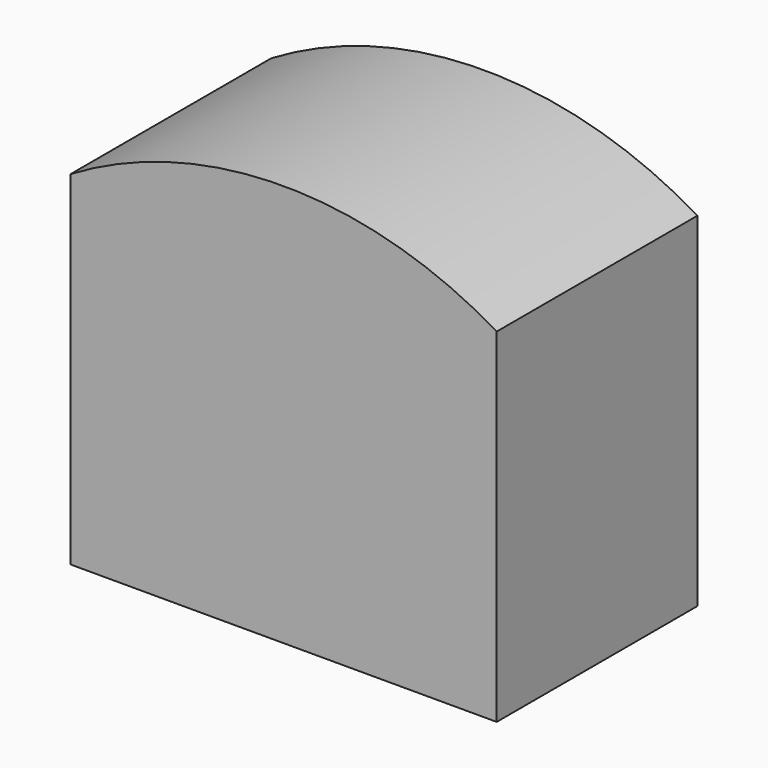
from build123d import *

# Parameters (mm, degrees)
F1_DEPTH = 36.5


with BuildPart() as f1:
    # F0 (on Front) → F1 (new body, symmetric)
    with BuildSketch(Plane.XZ):
        with BuildLine():
            Line((-62, 100), (-62, 0))
            Line((-62, 0), (62, 0))
            Line((62, 0), (62, 100))
            ThreePointArc((62, 100), (0, 117.1), (-62, 100))
        make_face()
    extrude(amount=F1_DEPTH, both=True)


solid = f1.part
